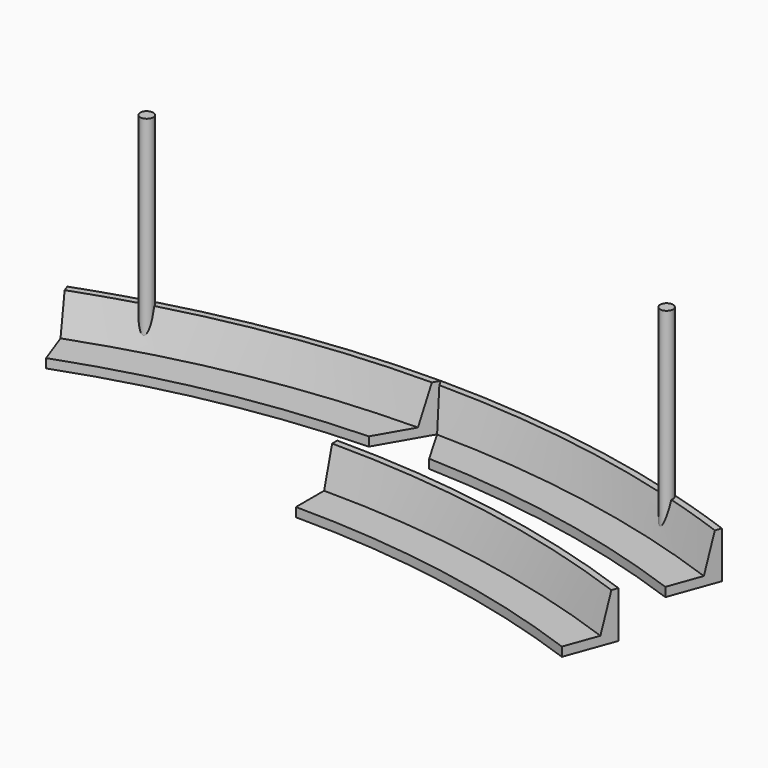
from build123d import *

# Parameters (mm, degrees)
BOX_W             = 100
BOX_H             = 100
BOX_DEPTH         = 100
CYLINDER_R        = 5
CYLINDER_DEPTH    = 165
BOX001_W          = 100
BOX001_H          = 100
BOX001_DEPTH      = 100
CYLINDER001_R     = 5
CYLINDER001_DEPTH = 165


with BuildPart() as body002:
    # AdditivePipe001: sweep along a path in Sketch005
    with BuildLine(Plane.XY) as additivepipe001_path:
        ThreePointArc((239.4141, -42.215165), (121.553724, -10.634573), (0, 0))
    # Sketch004 → AdditivePipe001 (sweep)
    with BuildSketch(Plane.YZ):
        Polygon((0, 0), (0, 7), (27.235429, 7), (35, 35.977775), (40, 35.977775), (40, 0), align=None)
    sweep(path=additivepipe001_path.line)

    # Box → Box (cut)
    with BuildSketch(Plane(origin=(0, 40, 0), x_dir=(-0.866025, -0.5, 0), z_dir=(0, 0, 1))):
        with Locations((50, 50)):
            Rectangle(BOX_W, BOX_H)
    extrude(amount=BOX_DEPTH, mode=Mode.SUBTRACT)

    # Cylinder → Cylinder (join)
    with BuildSketch(Plane(origin=(201, 7, 0), x_dir=(1, 0, 0), z_dir=(0, 0, 1))):
        Circle(CYLINDER_R)
    extrude(amount=CYLINDER_DEPTH)


with BuildPart() as body:
    # AdditivePipe002: sweep along a path in Sketch007
    with BuildLine(Plane.XY) as additivepipe002_path:
        ThreePointArc((239.4141, -42.215165), (121.553724, -10.634573), (0, 0))
    # Sketch006 → AdditivePipe002 (sweep)
    with BuildSketch(Plane.YZ):
        Polygon((0, 0), (0, 7), (27.235429, 7), (35, 35.977775), (40, 35.977775), (40, 0), align=None)
    sweep(path=additivepipe002_path.line)


with BuildPart() as body_1:
    # Body placement: moved
    add(body.part.moved(Location((0, -100, 0))))


with BuildPart() as body003:
    # AdditivePipe003: sweep along a path in Sketch009
    with BuildLine(Plane.XY) as additivepipe003_path:
        ThreePointArc((239.4141, -42.215165), (121.553724, -10.634573), (0, 0))
    # Sketch008 → AdditivePipe003 (sweep)
    with BuildSketch(Plane.YZ):
        Polygon((0, 0), (0, 7), (27.235429, 7), (35, 35.977775), (40, 35.977775), (40, 0), align=None)
    sweep(path=additivepipe003_path.line)

    # Box001 → Box001 (cut)
    with BuildSketch(Plane(origin=(0, 40, 0), x_dir=(-0.866025, -0.5, 0), z_dir=(0, 0, 1))):
        with Locations((50, 50)):
            Rectangle(BOX001_W, BOX001_H)
    extrude(amount=BOX001_DEPTH, mode=Mode.SUBTRACT)

    # Cylinder001 → Cylinder001 (join)
    with BuildSketch(Plane(origin=(201, 7, 0), x_dir=(1, 0, 0), z_dir=(0, 0, 1))):
        Circle(CYLINDER001_R)
    extrude(amount=CYLINDER001_DEPTH)


with BuildPart() as part_mirroring:
    # Part__Mirroring: instance of Body003
    add(body003.part.mirror(Plane(origin=(0, 0, 0), x_dir=(0, -1, 0), z_dir=(1, 0, 0))))


solid = Compound([body002.part, body_1.part, part_mirroring.part])
